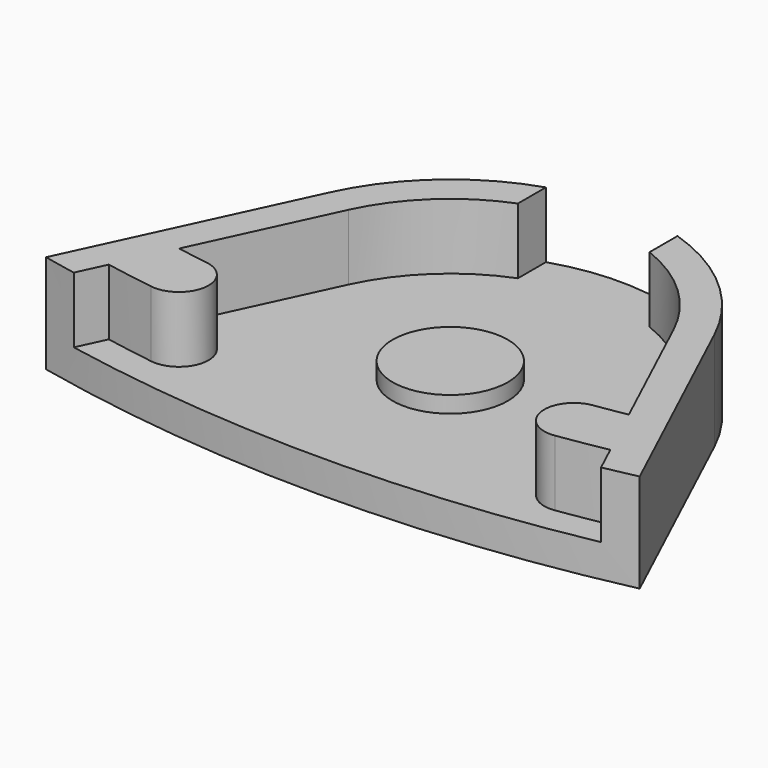
from build123d import *

# Parameters (mm, degrees)
PAD001_DEPTH = 4
PAD_DEPTH    = 6
SKETCH002_R  = 3.5
PAD002_DEPTH = 3


with BuildPart() as groove_pad:
    # Sketch001 → Pad001 (new body)
    with BuildSketch(Plane.XY.offset(2)):
        with BuildLine():
            ThreePointArc((-4, -64.360473), (-7.470504, -66.562647), (-9.878753, -69.893457))
            Line((-13.664632, -78.012293), (-9.878753, -69.893457))
            ThreePointArc((-13.664632, -78.012293), (-12.699944, -78.175133), (-11.733319, -78.326044))
            ThreePointArc((-12.266666, -81.886317), (-10.219864, -80.372853), (-11.733319, -78.326044))
            ThreePointArc((-15.237734, -81.385819), (-13.754477, -81.649583), (-12.266666, -81.886317))
            Line((-16.45811, -84.00292), (-15.237734, -81.385819))
            ThreePointArc((-16.45811, -84.00292), (0, -85.6), (16.45811, -84.00292))
            Line((16.45811, -84.00292), (15.237734, -81.385819))
            ThreePointArc((12.266666, -81.886317), (13.754477, -81.649583), (15.237734, -81.385819))
            ThreePointArc((11.733319, -78.326044), (10.219864, -80.372853), (12.266666, -81.886317))
            ThreePointArc((11.733319, -78.326044), (12.699944, -78.175133), (13.664632, -78.012293))
            Line((9.878753, -69.893457), (13.664632, -78.012293))
            ThreePointArc((9.878753, -69.893457), (7.470504, -66.562647), (4, -64.360473))
            Line((4, -61.187975), (4, -64.360473))
            ThreePointArc((4, -61.187975), (0, -60.6), (-4, -61.187975))
            Line((-4, -64.360473), (-4, -61.187975))
        make_face()
    extrude(amount=PAD001_DEPTH)


with BuildPart() as groove_cut:
    # Sketch → Pad (new body)
    with BuildSketch(Plane.XY):
        with BuildLine():
            ThreePointArc((-18.036325, -82.655012), (0, -84.6), (18.036325, -82.655012))
            Line((18.036325, -82.655012), (11.691387, -69.048259))
            ThreePointArc((11.691387, -69.048259), (0, -61.6), (-11.691387, -69.048259))
            Line((-18.036325, -82.655012), (-11.691387, -69.048259))
        make_face()
    extrude(amount=PAD_DEPTH)

    # Cut: cut Groove_Pad
    add(groove_pad.part, mode=Mode.SUBTRACT)


with BuildPart() as fusion:
    # Sketch002 → Pad002 (new body)
    with BuildSketch(Plane.XY):
        with Locations((0, -74.5)):
            Circle(SKETCH002_R)
    extrude(amount=PAD002_DEPTH)

    # Fusion: union Groove_Cut
    add(groove_cut.part)


solid = fusion.part
